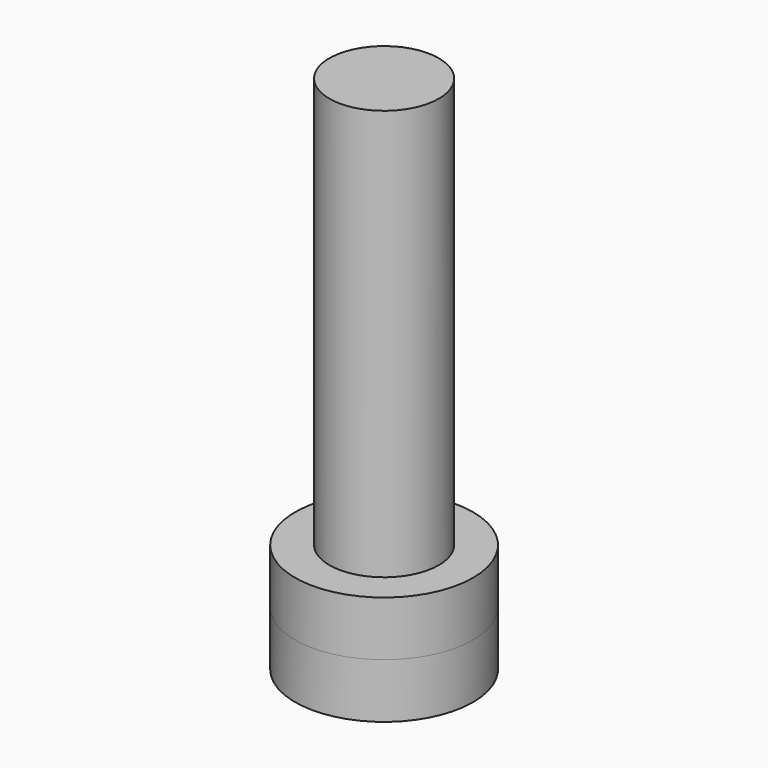
from build123d import *

# Parameters (mm, degrees)
F0_R     = 4
F1_DEPTH = 34
F0_R_2   = 6.5
F2_DEPTH = 4
F3_DEPTH = 4


with BuildPart() as f1:
    # F0 (on Top) → F1 (new body)
    with BuildSketch(Plane.XY):
        Circle(F0_R)
        Polygon((3.418825801, -0.5582384278), (1.2259642406, -3.2399092087), (-2.1928615604, -2.6816707809), (-3.418825801, 0.5582384278), (-1.2259642406, 3.2399092087), (2.1928615604, 2.6816707809), align=None, mode=Mode.SUBTRACT)
        Polygon((-2.1928615604, -2.6816707809), (1.2259642406, -3.2399092087), (3.418825801, -0.5582384278), (2.1928615604, 2.6816707809), (-1.2259642406, 3.2399092087), (-3.418825801, 0.5582384278), align=None)
    extrude(amount=F1_DEPTH)


with BuildPart() as f2:
    # F0 (on Top) → F2 (new body, symmetric)
    with BuildSketch(Plane.XY):
        Circle(F0_R_2)
        Circle(F0_R, mode=Mode.SUBTRACT)
        Circle(F0_R)
        Polygon((3.418825801, -0.5582384278), (1.2259642406, -3.2399092087), (-2.1928615604, -2.6816707809), (-3.418825801, 0.5582384278), (-1.2259642406, 3.2399092087), (2.1928615604, 2.6816707809), align=None, mode=Mode.SUBTRACT)
    extrude(amount=F2_DEPTH, both=True)


with BuildPart() as f3:
    # F0 (on Top) → F3 (new body)
    with BuildSketch(Plane.XY):
        Circle(F0_R_2)
        Circle(F0_R, mode=Mode.SUBTRACT)
        Circle(F0_R)
        Polygon((3.418825801, -0.5582384278), (1.2259642406, -3.2399092087), (-2.1928615604, -2.6816707809), (-3.418825801, 0.5582384278), (-1.2259642406, 3.2399092087), (2.1928615604, 2.6816707809), align=None, mode=Mode.SUBTRACT)
    extrude(amount=-F3_DEPTH)


solid = Compound([f1.part, f2.part, f3.part])
